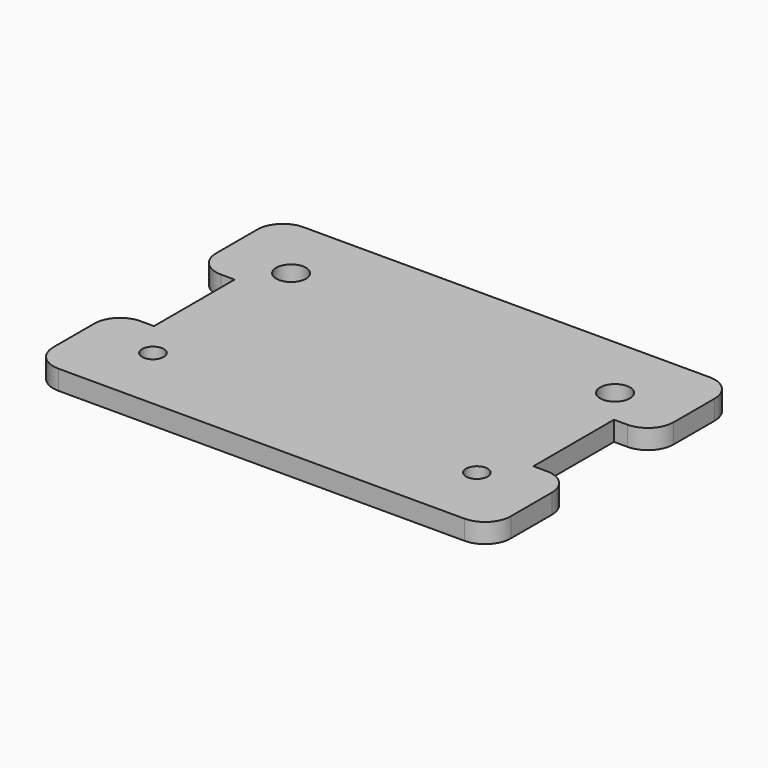
from build123d import *

# Parameters (mm, degrees)
F0_R     = 2.667
F0_R_2   = 3.683
F1_DEPTH = 4.826


with BuildPart() as f1:
    # F0 (on Top) → F1 (new body)
    with BuildSketch(Plane.XY):
        with BuildLine():
            Line((50.165, 37.846), (-50.165, 37.846))
            ThreePointArc((-50.165, 37.846), (-54.655128, 35.986128), (-56.515, 31.496))
            Line((-56.515, 31.496), (-56.515, 18.796))
            ThreePointArc((-56.515, 18.796), (-54.655128, 14.305872), (-50.165, 12.446))
            Line((-50.165, 12.446), (-46.863, 12.446))
            Line((-46.863, 12.446), (-46.863, -12.446))
            Line((-46.863, -12.446), (-50.165, -12.446))
            ThreePointArc((-50.165, -12.446), (-54.655128, -14.305872), (-56.515, -18.796))
            Line((-56.515, -18.796), (-56.515, -31.496))
            ThreePointArc((-56.515, -31.496), (-54.655128, -35.986128), (-50.165, -37.846))
            Line((-50.165, -37.846), (50.165, -37.846))
            ThreePointArc((50.165, -37.846), (54.655128, -35.986128), (56.515, -31.496))
            Line((56.515, -31.496), (56.515, -18.796))
            ThreePointArc((56.515, -18.796), (54.655128, -14.305872), (50.165, -12.446))
            Line((50.165, -12.446), (46.863, -12.446))
            Line((46.863, -12.446), (46.863, 12.446))
            Line((46.863, 12.446), (50.165, 12.446))
            ThreePointArc((50.165, 12.446), (54.655128, 14.305872), (56.515, 18.796))
            Line((56.515, 18.796), (56.515, 31.496))
            ThreePointArc((56.515, 31.496), (54.655128, 35.986128), (50.165, 37.846))
        make_face()
        with Locations((-40.005, -21.336)):
            Circle(F0_R, mode=Mode.SUBTRACT)
        with Locations((40.005, -21.336)):
            Circle(F0_R, mode=Mode.SUBTRACT)
        with Locations((-40.005, 21.336)):
            Circle(F0_R_2, mode=Mode.SUBTRACT)
        with Locations((40.005, 21.336)):
            Circle(F0_R_2, mode=Mode.SUBTRACT)
    extrude(amount=F1_DEPTH)


solid = f1.part
